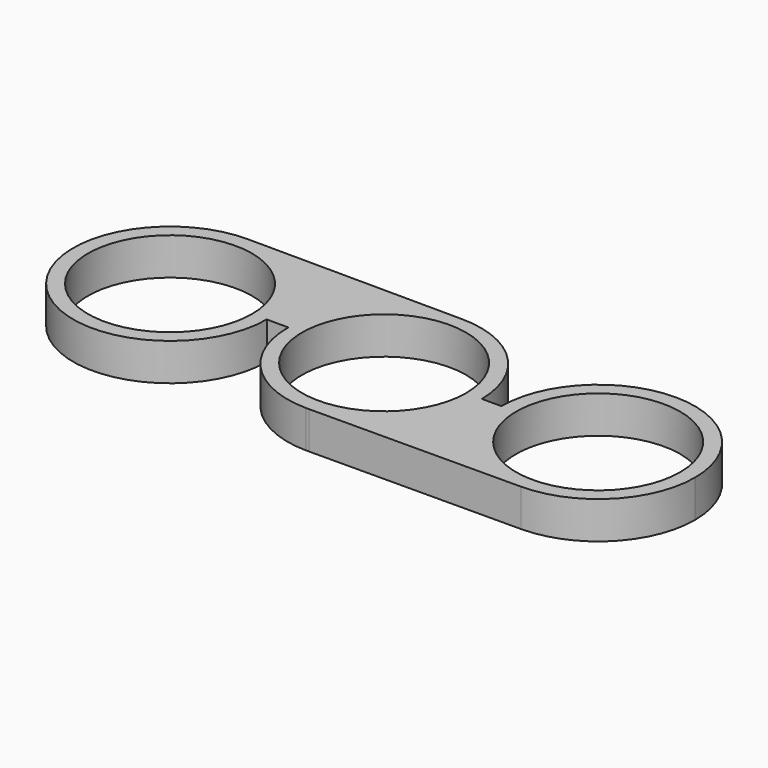
from build123d import *

# Parameters (mm, degrees)
F0_R     = 10.988142
F1_DEPTH = 5


with BuildPart() as f1:
    # F0 (on Top) → F1 (new body)
    with BuildSketch(Plane.XY):
        with BuildLine():
            ThreePointArc((-28.611247, 12.960998), (-37.862313, -9.142383), (-15.713758, 0))
            ThreePointArc((-15.713758, 0), (-19.487511, 9.142383), (-28.611247, 12.960998))
        make_face()
        with Locations((-28.674912, 0)):
            Circle(F0_R, mode=Mode.SUBTRACT)
        with BuildLine():
            ThreePointArc((-28.611247, 12.960998), (-19.487511, 9.142383), (-15.713758, 0))
            Line((-15.713758, 0), (-12.820523, 0))
            ThreePointArc((-12.820523, 0), (-9.025021, 9.025002), (0, 12.820459))
            Line((0, 12.820459), (-28.611247, 12.960998))
        make_face()
        with BuildLine():
            ThreePointArc((0, 12.820459), (-9.025021, 9.025002), (-12.820523, 0))
            ThreePointArc((-12.820523, 0), (-9.12344, -9.205396), (0, -13.10034))
            Line((0, -13.10034), (0.405422, -13.098374))
            ThreePointArc((0.405422, -13.098374), (9.398205, -9.21049), (13.10103, -0.13994))
            ThreePointArc((13.10103, -0.13994), (13.100841, -0.069969), (13.100275, 0))
            ThreePointArc((13.100275, 0), (9.205332, 9.123376), (0, 12.820459))
        make_face()
        Circle(F0_R, mode=Mode.SUBTRACT)
        with BuildLine():
            Line((0.405422, -13.098374), (0, -13.10034))
            ThreePointArc((0, -13.10034), (0.202719, -13.100942), (0.405422, -13.098374))
        make_face()
        with BuildLine():
            Line((15.713758, 0), (13.100275, 0))
            ThreePointArc((13.100275, 0), (13.100841, -0.069969), (13.10103, -0.13994))
            ThreePointArc((13.10103, -0.13994), (9.398205, -9.21049), (0.405422, -13.098374))
            Line((0.405422, -13.098374), (28.737754, -12.961002))
            ThreePointArc((28.737754, -12.961002), (19.532237, -9.187111), (15.713758, 0))
        make_face()
        with BuildLine():
            ThreePointArc((41.636066, 0), (28.674912, 12.961154), (15.713758, 0))
            ThreePointArc((15.713758, 0), (19.532237, -9.187111), (28.737754, -12.961002))
            ThreePointArc((28.737754, -12.961002), (37.862023, -9.142675), (41.636066, 0))
        make_face()
        with Locations((28.674912, 0)):
            Circle(F0_R, mode=Mode.SUBTRACT)
    extrude(amount=F1_DEPTH)


solid = f1.part
